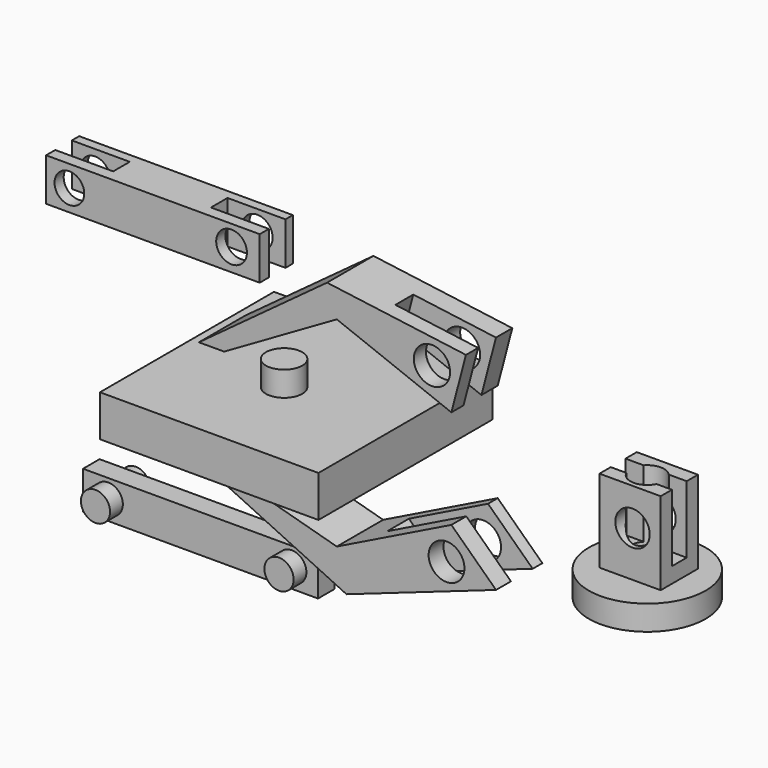
from build123d import *

# Parameters (mm, degrees)
F0_W      = 67.0474879444
F0_H      = 66.7495001107
F1_DEPTH  = 12.7
F2_W      = 65.5575403944
F2_H      = 13.1115093827
F2_R      = 4.5583548695
F2_R_2    = 4.711616035
F3_DEPTH  = 12.7
F4_W      = 17.78
F4_H      = 6.35
F5_DEPTH  = 25.4
F6_W      = 72.113298811
F6_H      = 11.6215646267
F7_DEPTH  = 6.35
F8_R      = 4.4698342681
F8_R_2    = 4.4797530181
F9_DEPTH  = 18.1154
F10_R     = 5.5848049297
F11_DEPTH = 7.62
F12_R     = 17.9251364519
F12_R_2   = 5.1607945496
F13_DEPTH = 7.62
F14_W     = 18.7732949853
F14_H     = 14.3034630455
F14_R     = 5.1607945496
F15_DEPTH = 25.4
F16_W     = 5.6617893279
F16_H     = 20.6534639266
F17_DEPTH = 25.4
F18_R     = 5.2803719503
F19_DEPTH = 25.4
F20_DEPTH = 7.62
F21_DEPTH = 17.78
F22_DEPTH = 13.208
F23_DEPTH = 13.208
F24_DEPTH = 7.62
F25_R     = 5.566890583
F26_DEPTH = 17.78
F25_R_2   = 5.4946431506
F27_W     = 6.8537420593
F27_H     = 10.1684303929
F27_H_2   = 17.5636542543
F27_H_3   = 4.3138757791
F28_DEPTH = 25.4
F29_W     = 18.9685716476
F29_H     = 8.3436870482
F29_W_2   = 9.4842951334
F29_W_3   = 9.8966461836
F30_DEPTH = 25.4


with BuildPart() as f1:
    # F0 (on Top) → F1 (new body)
    with BuildSketch(Plane.XY):
        with Locations((0.7449742407, 3.7248609588)):
            Rectangle(F0_W, F0_H)
    extrude(amount=F1_DEPTH)

    # F10 (on face) → F11 (join)
    with BuildSketch(Plane.XY.offset(12.7)):
        Circle(F10_R)
    extrude(amount=F11_DEPTH)



with BuildPart() as f3:
    # F2 (on Front) → F3 (new body)
    with BuildSketch(Plane.XZ):
        with Locations((-30.0968731754, 53.4889958799)):
            Rectangle(F2_W, F2_H)
        with Locations((-55.7239130139, 53.4889958799)):
            Circle(F2_R, mode=Mode.SUBTRACT)
        with Locations((-5.9597766958, 53.7869818509)):
            Circle(F2_R_2, mode=Mode.SUBTRACT)
    extrude(amount=F3_DEPTH)

    # F4 (on face) → F5 (cut)
    with BuildSketch(Plane.XY.offset(60.0447505713)):
        with Locations((-53.9856433725, -6.0058937326)):
            Rectangle(F4_W, F4_H)
        with Locations((-6.2081029782, -6.0058937326)):
            Rectangle(F4_W, F4_H)
    extrude(amount=-F5_DEPTH, mode=Mode.SUBTRACT)


with BuildPart() as f7:
    # F6 (on Front) → F7 (new body)
    with BuildSketch(Plane.XZ):
        with Locations((-20.5612289719, -30.9908390045)):
            Rectangle(F6_W, F6_H)
    extrude(amount=F7_DEPTH)

    # F8 (on face) → F9 (join, symmetric)
    with BuildSketch(Plane.XZ.offset(6.35)):
        with Locations((-48.8701686263, -30.8418441564)):
            Circle(F8_R)
        with Locations((7.4497233145, -30.8418441564)):
            Circle(F8_R_2)
    extrude(amount=F9_DEPTH, both=True)

    # F20 (cut): a face of the model
    f20_faces = [f7.faces().sort_by_distance(p)[0] for p in [
        (7.4497233145, 11.7654, -30.8418441564),
    ]]
    extrude(f20_faces, amount=-F20_DEPTH, mode=Mode.SUBTRACT)


with BuildPart() as f13:
    # F12 (on Top) → F13 (new body)
    with BuildSketch(Plane.XY):
        with Locations((120.8594217896, -11.7715625092)):
            Circle(F12_R)
        with Locations((120.8594217896, -11.7715625092)):
            Circle(F12_R_2, mode=Mode.SUBTRACT)
    extrude(amount=F13_DEPTH)

    # F14 (on face) → F15 (join)
    with BuildSketch(Plane.XY.offset(7.62)):
        with Locations((120.8379231393, -11.1745807808)):
            Rectangle(F14_W, F14_H)
        with Locations((120.8594217896, -11.7715625092)):
            Circle(F14_R, mode=Mode.SUBTRACT)
    extrude(amount=F15_DEPTH)

    # F16 (on face) → F17 (cut)
    with BuildSketch(Plane.YZ.offset(130.224570632)):
        with Locations((-11.1745819449, 22.6932680367)):
            Rectangle(F16_W, F16_H)
    extrude(amount=-F17_DEPTH, mode=Mode.SUBTRACT)

    # F18 (on face) → F19 (cut)
    with BuildSketch(Plane(origin=(0, -4.022849258, 0), x_dir=(-1, 0, 0), z_dir=(0, 1, 0))):
        with Locations((-121.5828880668, 21.6041896492)):
            Circle(F18_R)
    extrude(amount=-F19_DEPTH, mode=Mode.SUBTRACT)


with BuildPart() as f1_1:
    add(f1.part)
    # F21 (cut): a face of the model
    f21_faces = [f7.part.faces().sort_by_distance(p)[0] for p in [
        (7.4497233145, -24.4654, -30.8418441564),
    ]]
    extrude(f21_faces, amount=F21_DEPTH, mode=Mode.SUBTRACT)


with BuildPart() as f7_1:
    add(f7.part)

    # F22 (cut): a face of the model
    f22_faces = [f7_1.faces().sort_by_distance(p)[0] for p in [
        (7.4497233145, -24.4654, -30.8418441564),
    ]]
    extrude(f22_faces, amount=-F22_DEPTH, mode=Mode.SUBTRACT)

    # F23 (cut): a face of the model
    f23_faces = [f7_1.faces().sort_by_distance(p)[0] for p in [
        (-48.8701686263, -24.4654, -30.8418441564),
    ]]
    extrude(f23_faces, amount=-F23_DEPTH, mode=Mode.SUBTRACT)

    # F24 (cut): a face of the model
    f24_faces = [f7_1.faces().sort_by_distance(p)[0] for p in [
        (-48.8701686263, 11.7654, -30.8418441564),
    ]]
    extrude(f24_faces, amount=-F24_DEPTH, mode=Mode.SUBTRACT)


with BuildPart() as f26:
    # F25 (on Front) → F26 (new body)
    with BuildSketch(Plane.XZ):
        Polygon((65.5609965324, 34.417707473), (70.03082335, 51.4030717313), (27.4184215814, 57.0648610592), (-11.9161028415, 28.1599443406), (-4.168394953, 28.1599443406), (30.3983129561, 48.1251962483), align=None)
        with Locations((59.6012175083, 45.1453104615)):
            Circle(F25_R, mode=Mode.SUBTRACT)
    extrude(amount=F26_DEPTH)

    # F27 (on face) → F28 (cut)
    with BuildSketch(Plane(origin=(52.8441588548, 0, -13.9063392934), x_dir=(0, 1, 0), z_dir=(0.9670746197, 0, -0.2544929861))):
        with Locations((-9.6846364904, 72.6171745931)):
            Rectangle(F27_W, F27_H)
        with Locations((-9.6846364904, 58.7511322695)):
            Rectangle(F27_W, F27_H_2)
        with Locations((-9.6846364904, 47.8123672528)):
            Rectangle(F27_W, F27_H_3)
    extrude(amount=-F28_DEPTH, mode=Mode.SUBTRACT)


with BuildPart() as f26b:
    # F25 (on Front) → F26, piece 2 (new body)
    with BuildSketch(Plane.XZ):
        Polygon((79.2684778571, -9.088659659), (65.5609965324, 4.022849258), (30.3983129561, -13.2605032995), (-4.168394953, -3.7248602603), (-11.9161028415, -3.7248602603), (33.3782024682, -25.1800566912), align=None)
        with Locations((64.0710517764, -6.4067598432)):
            Circle(F25_R_2, mode=Mode.SUBTRACT)
    extrude(amount=F26_DEPTH)

    # F29 (on face) → F30 (cut)
    with BuildSketch(Plane(origin=(33.33375797, 0, 34.8489153876), x_dir=(0.7226417244, 0, -0.6912227848), z_dir=(0.6912227848, 0, 0.7226417244))):
        with Locations((54.0807123441, -7.8967037844)):
            Rectangle(F29_W, F29_H)
        with Locations((39.8542789537, -7.8967037844)):
            Rectangle(F29_W_2, F29_H)
        with Locations((68.5133212597, -7.8967037844)):
            Rectangle(F29_W_3, F29_H)
    extrude(amount=-F30_DEPTH, mode=Mode.SUBTRACT)


solid = Compound([f3.part, f13.part, f1_1.part, f7_1.part, f26.part, f26b.part])
